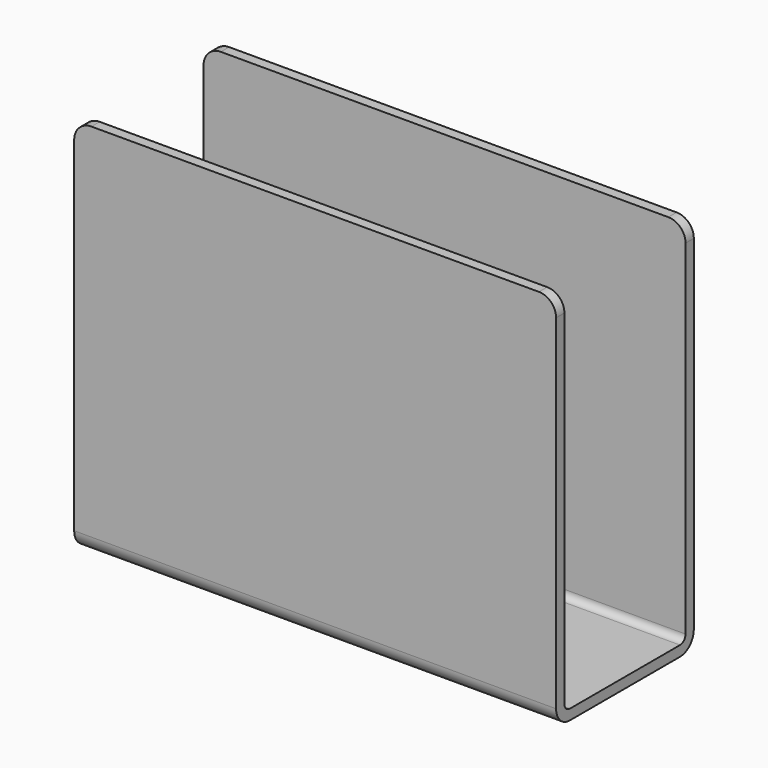
from build123d import *

# Parameters (mm, degrees)
F0_W     = 140
F0_H     = 50
F1_DEPTH = 110
F2_R     = 5
F3_T     = -3


with BuildPart() as f1:
    # F0 (on Top) → F1 (new body)
    with BuildSketch(Plane.XY):
        with Locations((-2.237636596, -25.9080916599)):
            Rectangle(F0_W, F0_H)
    extrude(amount=F1_DEPTH)

    # F2
    f2_edges = [f1.edges().sort_by_distance(p)[0] for p in [
        (-72.237637, -25.908092, 110),
        (67.762363, -25.908092, 110),
        (-2.237637, -50.908092, 0),
        (-2.237637, -0.908092, 0),
    ]]
    fillet(f2_edges, radius=F2_R)

    # F3
    f3_openings = [f1.faces().sort_by_distance(p)[0] for p in [
        (67.762363, -25.908092, 52.605233),
        (66.297897, -25.908092, 108.535534),
        (-2.237637, -25.908092, 110),
        (-70.773171, -25.908092, 108.535534),
        (-72.237637, -25.908092, 52.605233),
    ]]
    offset(amount=F3_T, openings=f3_openings)


solid = f1.part
